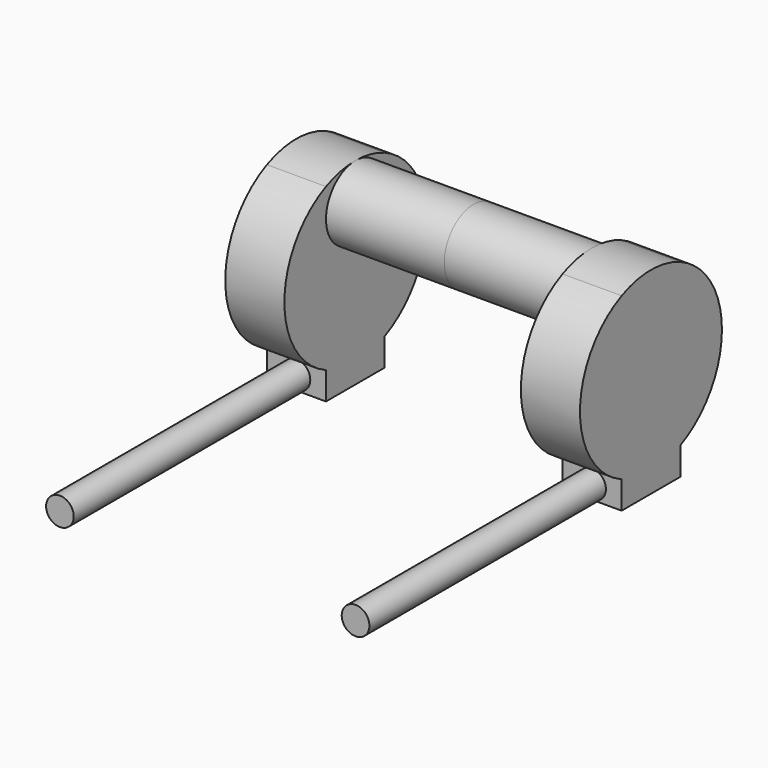
from build123d import *

# Parameters (mm, degrees)
F0_R     = 3.1
F1_DEPTH = 10
F3_DEPTH = 5
F4_R     = 1.1706515684
F5_DEPTH = 25


with BuildPart() as f1:
    # F0 (on Right) → F1 (new body)
    with BuildSketch(Plane.YZ):
        Circle(F0_R)
    extrude(amount=F1_DEPTH)

    # F2 (on face) → F3 (join)
    with BuildSketch(Plane.YZ.offset(10)):
        with BuildLine():
            ThreePointArc((3.1, -11.2293484316), (6.3047601065, -8.4620192023), (7.5, -4.4))
            ThreePointArc((7.5, -4.4), (6.3047601065, -0.3379807977), (3.1, 2.4293484316))
            Line((3.1, 2.4293484316), (3.1, -11.2293484316))
        make_face()
        with BuildLine():
            Line((-3.1, 2.4293484316), (3.1, 2.4293484316))
            ThreePointArc((3.1, 2.4293484316), (0, 3.1), (-3.1, 2.4293484316))
        make_face()
        with BuildLine():
            Line((3.1, -11.2293484316), (3.1, 2.4293484316))
            Line((3.1, 2.4293484316), (-3.1, 2.4293484316))
            Line((-3.1, 2.4293484316), (-3.1, -11.2293484316))
            ThreePointArc((-3.1, -11.2293484316), (0, -11.9), (3.1, -11.2293484316))
        make_face()
        with BuildLine():
            Line((3.1, -13.5706515684), (3.1, -11.2293484316))
            ThreePointArc((3.1, -11.2293484316), (0, -11.9), (-3.1, -11.2293484316))
            Line((-3.1, -11.2293484316), (-3.1, -13.5706515684))
            Line((-3.1, -13.5706515684), (3.1, -13.5706515684))
        make_face()
        with BuildLine():
            Line((-3.1, -11.2293484316), (-3.1, 2.4293484316))
            ThreePointArc((-3.1, 2.4293484316), (-7.5, -4.4), (-3.1, -11.2293484316))
        make_face()
    extrude(amount=F3_DEPTH)

    # F4 (on face) → F5 (join)
    with BuildSketch(Plane.XZ.offset(3.1)):
        with Locations((12.5, -12.4)):
            Circle(F4_R)
    extrude(amount=F5_DEPTH)

    # F6: F1 across face


with BuildPart() as f1_1:
    add(f1.part)
    add(f1.part.mirror(Plane(origin=(0, 0, 0), x_dir=(0, 1, 0), z_dir=(-1, 0, 0))))


solid = f1_1.part
